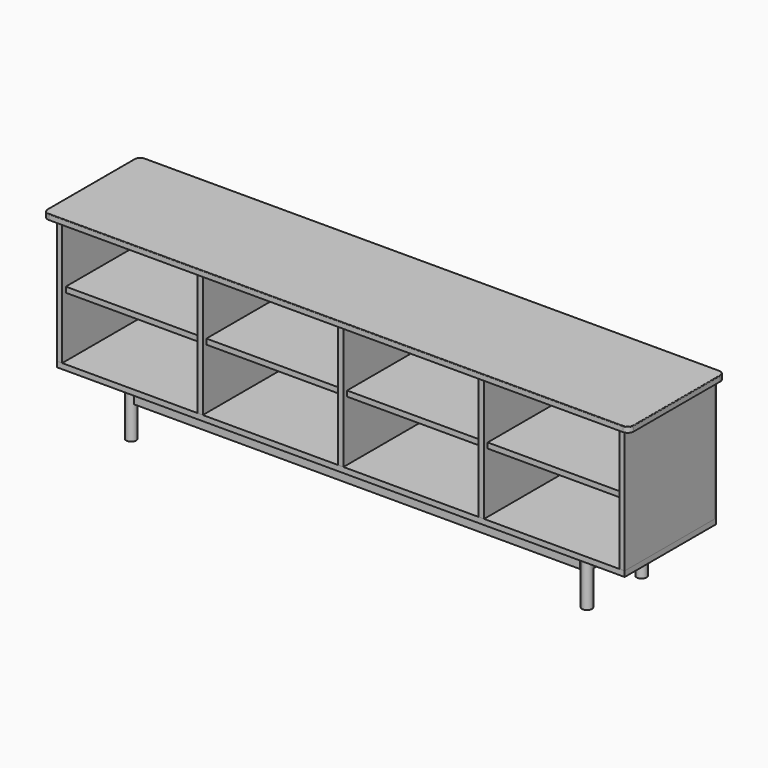
from build123d import *

# Parameters (mm, degrees)
BOX029_W          = 18
BOX029_H          = 373
BOX029_DEPTH      = 418
BOX034_W          = 450
BOX034_H          = 358
BOX034_DEPTH      = 18
BOX035_W          = 1890
BOX035_H          = 380
BOX035_DEPTH      = 18
BOX039_W          = 1484
BOX039_H          = 18
BOX039_DEPTH      = 70
CYLINDER008_R     = 16.5
CYLINDER008_DEPTH = 180
OBJ1         = 1890
OBJ2         = 418
OBJ3     = 7
BOX041_W          = 18
BOX041_H          = 194
BOX041_DEPTH      = 70
BOX028_W          = 1950
BOX028_H          = 400
BOX028_DEPTH      = 18
FILLET004_R       = 20
FILLET005_R       = 2


with BuildPart() as obj4:
    # Box029 → Box029 (new body)
    with BuildSketch(Plane.XY.offset(18)):
        with Locations((9, 186.5)):
            Rectangle(BOX029_W, BOX029_H)
    extrude(amount=BOX029_DEPTH)


with BuildPart() as obj5:
    # Box034 → Box034 (new body)
    with BuildSketch(Plane(origin=(18, 15, 218), x_dir=(1, 0, 0), z_dir=(0, 0, 1))):
        with Locations((225, 179)):
            Rectangle(BOX034_W, BOX034_H)
    extrude(amount=BOX034_DEPTH)


with BuildPart() as obj6:
    # Box035 → Box035 (new body)
    with BuildSketch(Plane.XY):
        with Locations((945, 190)):
            Rectangle(BOX035_W, BOX035_H)
    extrude(amount=BOX035_DEPTH)


with BuildPart() as obj7:
    # Box039 → Box039 (new body)
    with BuildSketch(Plane(origin=(203, 67.5, -70), x_dir=(1, 0, 0), z_dir=(0, 0, 1))):
        with Locations((742, 9)):
            Rectangle(BOX039_W, BOX039_H)
    extrude(amount=BOX039_DEPTH)


with BuildPart() as obj8:
    # Cylinder008 → Cylinder008 (new body)
    with BuildSketch(Plane(origin=(186.5, 76.5, -180), x_dir=(1, 0, 0), z_dir=(0, 0, 1))):
        Circle(CYLINDER008_R)
    extrude(amount=CYLINDER008_DEPTH)


with BuildPart() as obj9:
    with BuildSketch(Plane(origin=(0, 380, 18), x_dir=(1, 0, 0), z_dir=(0, -1, 0))):
        with Locations((945, 209)):
            Rectangle(OBJ1, OBJ2)
    extrude(amount=OBJ3)


with BuildPart() as obj10:
    # Box041 → Box041 (new body)
    with BuildSketch(Plane(origin=(177.5, 93, -70), x_dir=(1, 0, 0), z_dir=(0, 0, 1))):
        with Locations((9, 97)):
            Rectangle(BOX041_W, BOX041_H)
    extrude(amount=BOX041_DEPTH)


with BuildPart() as fillet005:
    # Box028 → Box028 (new body)
    with BuildSketch(Plane(origin=(-30, -20, 436), x_dir=(1, 0, 0), z_dir=(0, 0, 1))):
        with Locations((975, 200)):
            Rectangle(BOX028_W, BOX028_H)
    extrude(amount=BOX028_DEPTH)

    # Fillet004
    fillet004_edges = [fillet005.edges().sort_by_distance(p)[0] for p in [
        (-30, -20, 445),
        (-30, 380, 445),
        (1920, -20, 445),
        (1920, 380, 445),
    ]]
    fillet(fillet004_edges, radius=FILLET004_R)

    # Fillet005
    fillet005_edges = [fillet005.edges().sort_by_distance(p)[0] for p in [
        (-30, 180, 454),
        (-24.142136, -14.142136, 454),
        (945, -20, 454),
        (1914.142136, -14.142136, 454),
        (1920, 180, 454),
        (1914.142136, 374.142136, 454),
        (945, 380, 454),
        (-24.142136, 374.142136, 454),
    ]]
    fillet(fillet005_edges, radius=FILLET005_R)


with BuildPart() as obj11:
    # Clone base: copy of obj4
    add(obj4.part)


with BuildPart() as obj11_1:
    # Clone placement: moved
    add(obj11.part.moved(Location((468, 0, 0))))


with BuildPart() as obj12:
    # Clone001 base: copy of obj4
    add(obj4.part)


with BuildPart() as obj12_1:
    # Clone001 placement: moved
    add(obj12.part.moved(Location((936, 0, 0))))


with BuildPart() as obj13:
    # Clone002 base: copy of obj4
    add(obj4.part)


with BuildPart() as obj13_1:
    # Clone002 placement: moved
    add(obj13.part.moved(Location((1404, 0, 0))))


with BuildPart() as obj14:
    # Clone003 base: copy of obj4
    add(obj4.part)


with BuildPart() as obj14_1:
    # Clone003 placement: moved
    add(obj14.part.moved(Location((1872, 0, 0))))


with BuildPart() as obj15:
    # Clone004 base: copy of obj5
    add(obj5.part)


with BuildPart() as obj15_1:
    # Clone004 placement: moved
    add(obj15.part.moved(Location((468, 0, 0))))


with BuildPart() as obj16:
    # Clone005 base: copy of obj5
    add(obj5.part)


with BuildPart() as obj16_1:
    # Clone005 placement: moved
    add(obj16.part.moved(Location((936, 0, 0))))


with BuildPart() as obj17:
    # Clone006 base: copy of obj5
    add(obj5.part)


with BuildPart() as obj17_1:
    # Clone006 placement: moved
    add(obj17.part.moved(Location((1404, 0, 0))))


with BuildPart() as obj18:
    # Clone007 base: copy of obj7
    add(obj7.part)


with BuildPart() as obj18_1:
    # Clone007 placement: moved
    add(obj18.part.moved(Location((0, 227, 0))))


with BuildPart() as obj19:
    # Clone008 base: copy of obj10
    add(obj10.part)


with BuildPart() as obj19_1:
    # Clone008 placement: moved
    add(obj19.part.moved(Location((1517, 0, 0))))


with BuildPart() as obj20:
    # Clone009 base: copy of obj8
    add(obj8.part)


with BuildPart() as obj20_1:
    # Clone009 placement: moved
    add(obj20.part.moved(Location((0, 227, 0))))


with BuildPart() as obj21:
    # Clone010 base: copy of obj8
    add(obj8.part)


with BuildPart() as obj21_1:
    # Clone010 placement: moved
    add(obj21.part.moved(Location((1517, 0, 0))))


with BuildPart() as obj22:
    # Clone011 base: copy of obj8
    add(obj8.part)


with BuildPart() as obj22_1:
    # Clone011 placement: moved
    add(obj22.part.moved(Location((1517, 227, 0))))


solid = Compound([obj4.part, obj5.part, obj6.part, obj7.part, obj8.part, obj9.part, obj10.part, fillet005.part, obj11_1.part, obj12_1.part, obj13_1.part, obj14_1.part, obj15_1.part, obj16_1.part, obj17_1.part, obj18_1.part, obj19_1.part, obj20_1.part, obj21_1.part, obj22_1.part])
